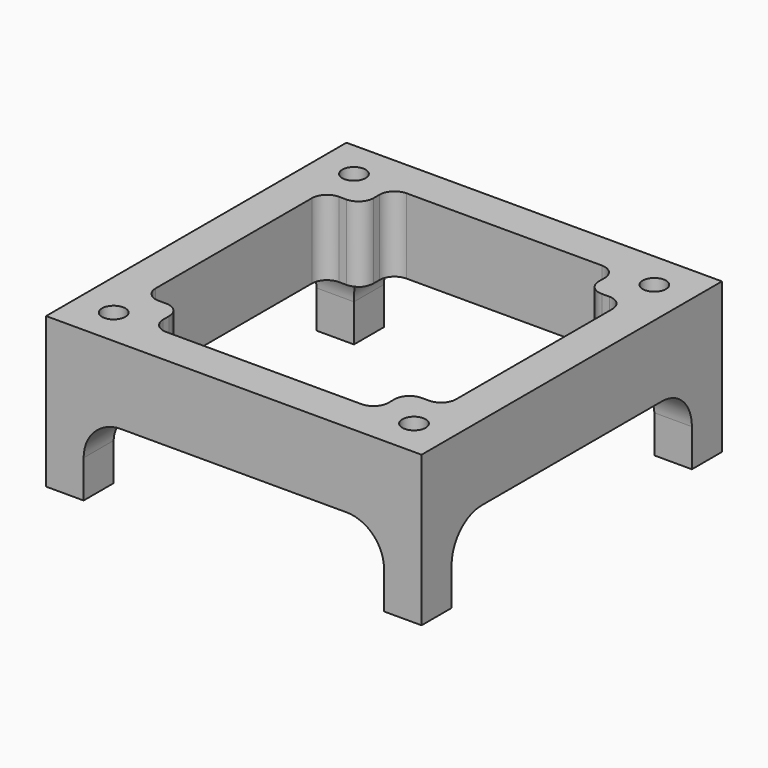
from build123d import *

# Parameters (mm, degrees)
SKETCH069_W     = 50
SKETCH069_H     = 50
PAD012_DEPTH    = 20
POCKET058_DEPTH = 20.001
POCKET059_DEPTH = 50.001
POCKET060_DEPTH = 50.001
SKETCH073_R     = 1.55
POCKET061_DEPTH = 5


with BuildPart() as part:
    # Sketch069 → Pad012 (new body)
    with BuildSketch(Plane.XY):
        Rectangle(SKETCH069_W, SKETCH069_H)
    extrude(amount=PAD012_DEPTH)

    # Sketch070 (on Face6 of Pad012) → Pocket058 (cut, through all)
    with BuildSketch(Plane.XY.offset(20)):
        with BuildLine():
            Line((-18, 15), (-17, 15))
            ThreePointArc((-17, 15), (-15.585786, 15.585786), (-15, 17))
            Line((-15, 17), (-15, 18))
            ThreePointArc((-13, 20), (-14.414214, 19.414214), (-15, 18))
            Line((-13, 20), (13, 20))
            ThreePointArc((15, 18), (14.414214, 19.414214), (13, 20))
            Line((15, 18), (15, 17))
            ThreePointArc((15, 17), (15.585786, 15.585786), (17, 15))
            Line((17, 15), (18, 15))
            ThreePointArc((20, 13), (19.414214, 14.414214), (18, 15))
            Line((20, 13), (20, -13))
            ThreePointArc((18, -15), (19.414214, -14.414214), (20, -13))
            Line((18, -15), (17, -15))
            ThreePointArc((17, -15), (15.585786, -15.585786), (15, -17))
            Line((15, -17), (15, -18))
            ThreePointArc((13, -20), (14.414214, -19.414214), (15, -18))
            Line((13, -20), (-13, -20))
            ThreePointArc((-15, -18), (-14.414214, -19.414214), (-13, -20))
            Line((-15, -18), (-15, -17))
            ThreePointArc((-15, -17), (-15.585786, -15.585786), (-17, -15))
            Line((-17, -15), (-18, -15))
            ThreePointArc((-20, -13), (-19.414214, -14.414214), (-18, -15))
            Line((-20, -13), (-20, 13))
            ThreePointArc((-18, 15), (-19.414214, 14.414214), (-20, 13))
        make_face()
    extrude(amount=-POCKET058_DEPTH, mode=Mode.SUBTRACT)

    # Sketch071 (on Face3 of Pocket058) → Pocket059 (cut, through all)
    with BuildSketch(Plane.YZ.offset(25)):
        with BuildLine():
            Line((-15, 10), (15, 10))
            ThreePointArc((20, 5), (18.535534, 8.535534), (15, 10))
            Line((20, 5), (20, 0))
            Line((20, 0), (-20, 0))
            Line((-20, 0), (-20, 5))
            ThreePointArc((-15, 10), (-18.535534, 8.535534), (-20, 5))
        make_face()
    extrude(amount=-POCKET059_DEPTH, mode=Mode.SUBTRACT)

    # Sketch072 (on Face6 of Pocket058) → Pocket060 (cut, through all)
    with BuildSketch(Plane.XZ.offset(25)):
        with BuildLine():
            Line((-15, 10), (15, 10))
            ThreePointArc((20, 5), (18.535534, 8.535534), (15, 10))
            Line((20, 5), (20, 0))
            Line((20, 0), (-20, 0))
            Line((-20, 0), (-20, 5))
            ThreePointArc((-15, 10), (-18.535534, 8.535534), (-20, 5))
        make_face()
    extrude(amount=-POCKET060_DEPTH, mode=Mode.SUBTRACT)

    # Sketch073 → Pocket061 (cut)
    with BuildSketch(Plane.XY.offset(20)):
        with Locations((-20, 20)):
            Circle(SKETCH073_R)
        with Locations((20, 20)):
            Circle(SKETCH073_R)
        with Locations((20, -20)):
            Circle(SKETCH073_R)
        with Locations((-20, -20)):
            Circle(SKETCH073_R)
    extrude(amount=-POCKET061_DEPTH, mode=Mode.SUBTRACT)


with BuildPart() as part_1:
    # Body013 placement: moved
    add(part.part.moved(Location((85, 85, 0))))


solid = part_1.part
